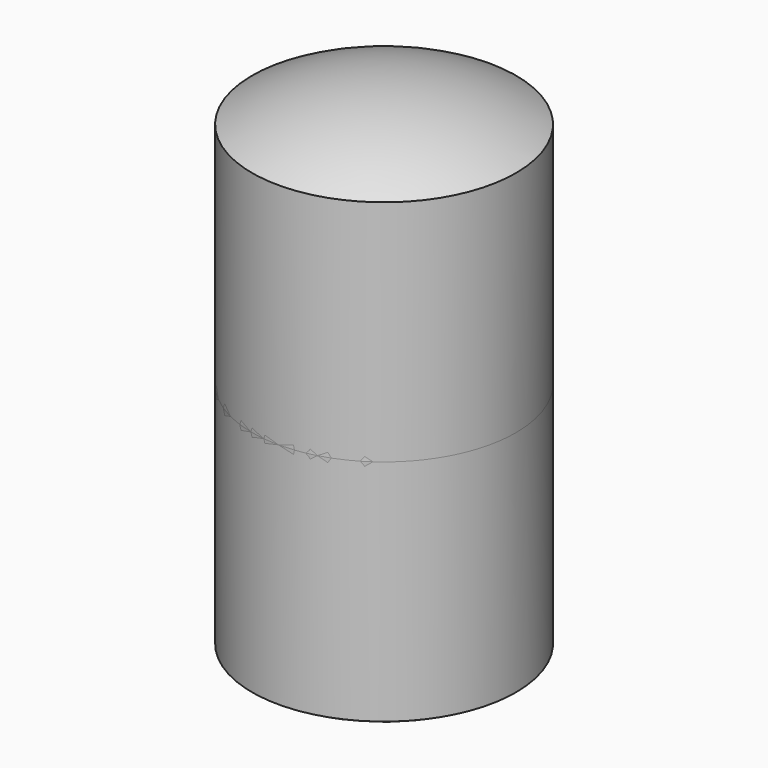
from build123d import *

# Parameters (mm, degrees)
F2_R     = 25.4
F2_R_2   = 12.7
F3_DEPTH = 25.4


with BuildPart() as f1:
    # F0 (on Top) → F1 (revolve)
    with BuildSketch(Plane.XY):
        with BuildLine():
            ThreePointArc((0, -12.7), (-12.7, 0), (0, 12.7))
            Line((0, 12.7), (0, 25.4))
            ThreePointArc((0, 25.4), (-25.4, 0), (0, -25.4))
            Line((0, -25.4), (0, -12.7))
        make_face()
    revolve(axis=Axis((0, -19.05, 0), (0, -1, 0)))

    # F2 (on Top) → F3 (cut, symmetric)
    with BuildSketch(Plane.XY):
        Circle(F2_R)
        Circle(F2_R_2, mode=Mode.SUBTRACT)
    extrude(amount=F3_DEPTH, both=True, mode=Mode.SUBTRACT)


solid = f1.part
